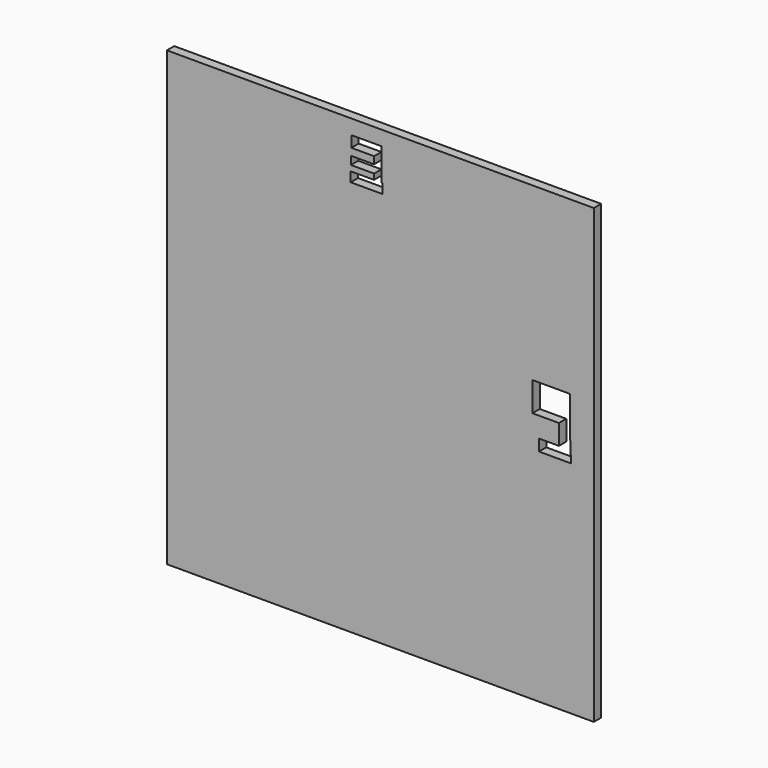
from build123d import *

# Parameters (mm, degrees)
F0_W     = 83.75
F0_H     = 88.75
F1_DEPTH = 1.8


with BuildPart() as f1:
    # F0 (on Front) → F1 (new body)
    with BuildSketch(Plane.XZ):
        with Locations((24.1674456596, 23.5799620202)):
            Rectangle(F0_W, F0_H)
        Polygon((18.4781197459, 62.8862977028), (18.4781197459, 65.0812536478), (22.9414254427, 65.0812536478), (24.4153719395, 65.0812536478), (24.4153719395, 62.8862977028), (24.4153719395, 58.7922595441), (24.5893355459, 58.7922595441), (24.5893355459, 56.8918511271), (24.4153719395, 56.8918511271), (22.9414254427, 56.8918511271), (18.3467753232, 56.8918511271), (18.3467753232, 58.7922595441), (22.9414254427, 58.7922595441), (22.9414254427, 59.8915442824), (18.4030663222, 59.8915442824), (18.4030663222, 61.4875406027), (22.9414254427, 61.4875406027), (22.9414254427, 62.8862977028), align=None, mode=Mode.SUBTRACT)
        Polygon((54.0106110275, 28.6037959158), (54.0106110275, 34.3368314207), (61.3295138193, 34.3368314207), (61.3350011408, 28.6037959158), (61.5792682247, 22.3988331854), (55.281445384, 22.3988331854), (55.281445384, 24.650869891), (59.2015348375, 24.650869891), (59.2015348375, 28.6037959158), align=None, mode=Mode.SUBTRACT)
    extrude(amount=F1_DEPTH)


solid = f1.part
